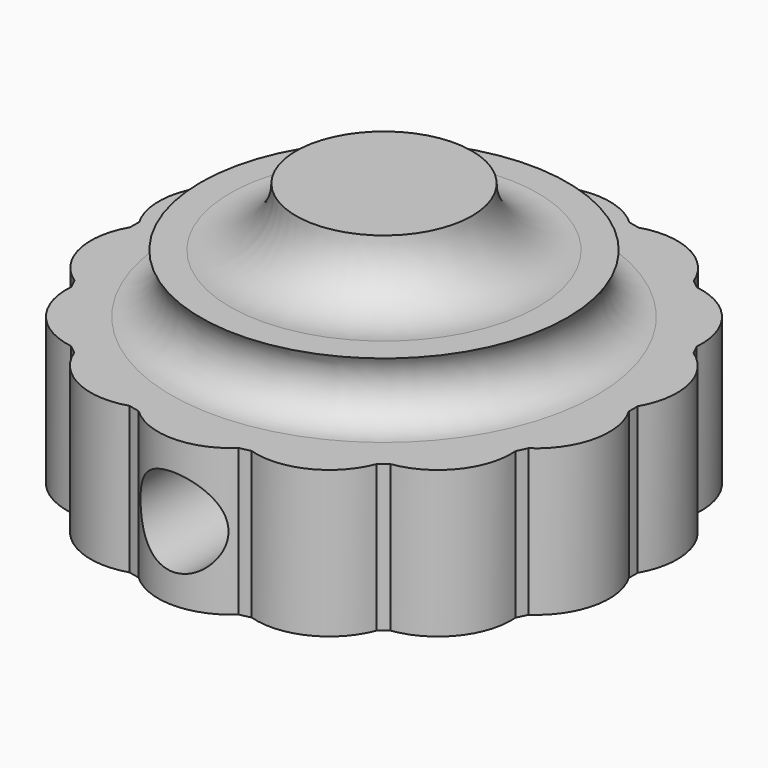
from build123d import *

# Parameters (mm, degrees)
SKETCH_R           = 8.5
PAD_DEPTH          = 5
PAD001_DEPTH       = 5
POLARPATTERN_COUNT = 14
SKETCH006_R        = 1.5
POCKET_DEPTH       = 9.001
POCKET_DEPTH_BACK  = -9.001


with BuildPart() as part:
    # Sketch → Pad (new body)
    with BuildSketch(Plane.XY):
        Circle(SKETCH_R)
    extrude(amount=PAD_DEPTH)

    # Sketch001 (on Face3 of Pad) → Pad001 (join)
    with BuildSketch(Plane.XY.offset(5)):
        with BuildLine():
            ThreePointArc((1.706561, 8.326923), (0, 9), (-1.706561, 8.326923))
            ThreePointArc((1.706561, 8.326923), (0, 8.5), (-1.706561, 8.326923))
        make_face()
    pad001 = extrude(amount=-PAD001_DEPTH)

    # PolarPattern: Pad001 ×14 about axis
    polarpattern_axis = Axis((0, 0, 5), (0, 0, 1))
    for i in range(1, POLARPATTERN_COUNT):
        add(pad001.rotate(polarpattern_axis, i * 360 / POLARPATTERN_COUNT))

    # Sketch006 → Pocket (cut, two sides)
    with BuildSketch(Plane.XZ) as pocket_sk:
        with Locations((0, 2.5)):
            Circle(SKETCH006_R)
    extrude(amount=-POCKET_DEPTH, mode=Mode.SUBTRACT)
    extrude(pocket_sk.sketch, amount=-POCKET_DEPTH_BACK, mode=Mode.SUBTRACT)

    # Sketch004 → Revolution (revolve)
    with BuildSketch(Plane.XZ):
        with BuildLine():
            Line((0, 5), (7.25, 5))
            ThreePointArc((6.25, 7), (6.131966, 5.690983), (7.25, 5))
            Line((6.25, 7), (5.25, 7))
            ThreePointArc((3, 9), (3.675934, 7.494801), (5.25, 7))
            Line((0, 9), (3, 9))
            Line((0, 9), (0, 7))
            Line((0, 7), (0, 5))
        make_face()
    revolve(axis=Axis((0, 0, 0), (0, 0, 1)))


solid = part.part
